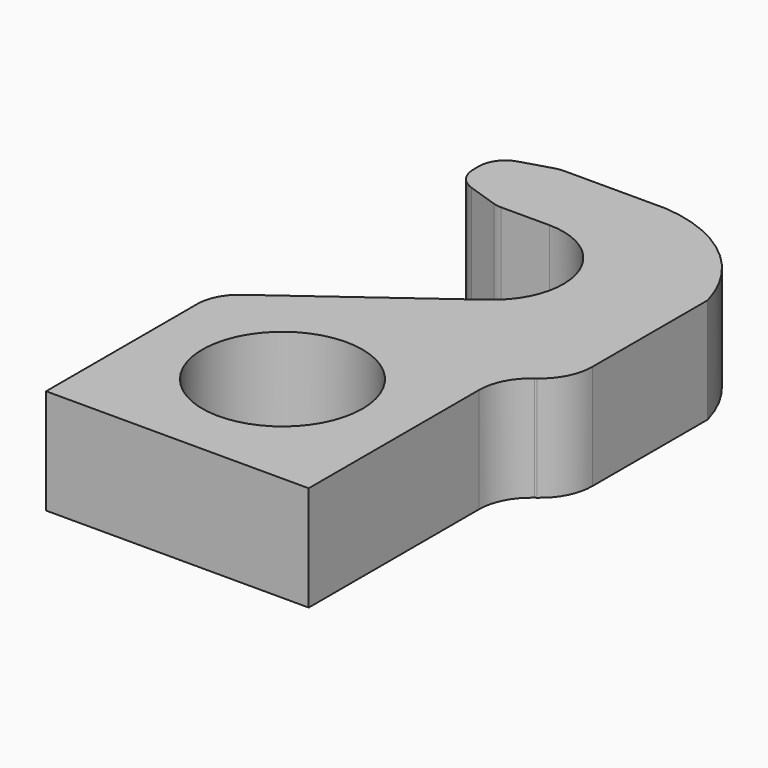
from build123d import *

# Parameters (mm, degrees)
F0_R     = 15.25
F1_DEPTH = 20


with BuildPart() as f1:
    # F0 (on Top) → F1 (new body)
    with BuildSketch(Plane.XY):
        with BuildLine():
            ThreePointArc((0, 13.5), (12.833067, 4.190749), (7.967432, -10.898166))
            Line((7.967432, -10.898166), (-21.721441, -32.603111))
            ThreePointArc((-21.721441, -32.603111), (-24.133426, -35.439925), (-25, -39.061283))
            Line((-25, -39.061283), (-25, -75))
            Line((-25, -75), (25, -75))
            Line((25, -75), (25, -34.491112))
            ThreePointArc((25, -34.491112), (26.083218, -29.964415), (29.098198, -26.418397))
            Line((29.098198, -26.418397), (29.401802, -26.196438))
            ThreePointArc((29.401802, -26.196438), (32.416782, -22.65042), (33.5, -18.123723))
            Line((33.5, -18.123723), (33.5, 5.596963))
            Line((33.5, 5.596963), (33.5, 9.327424))
            ThreePointArc((33.5, 9.327424), (24.903025, 22.59205), (10.241701, 28.5))
            Line((10.241701, 28.5), (9.463226, 28.5))
            Line((9.463226, 28.5), (-9.266156, 28.5))
            ThreePointArc((-9.266156, 28.5), (-9.992222, 28.447002), (-10.702895, 28.289131))
            Line((-10.702895, 28.289131), (-16.436739, 26.568978))
            ThreePointArc((-16.436739, 26.568978), (-19.011465, 24.764499), (-20, 21.779847))
            Line((-20, 21.779847), (-20, 20.437129))
            ThreePointArc((-20, 20.437129), (-19.056211, 17.513578), (-16.581139, 15.693713))
            Line((-16.581139, 15.693713), (-10.769751, 13.756584))
            ThreePointArc((-10.769751, 13.756584), (-9.989523, 13.564563), (-9.188612, 13.5))
            Line((-9.188612, 13.5), (0, 13.5))
        make_face()
        with Locations((0, -50)):
            Circle(F0_R, mode=Mode.SUBTRACT)
    extrude(amount=F1_DEPTH)


solid = f1.part
